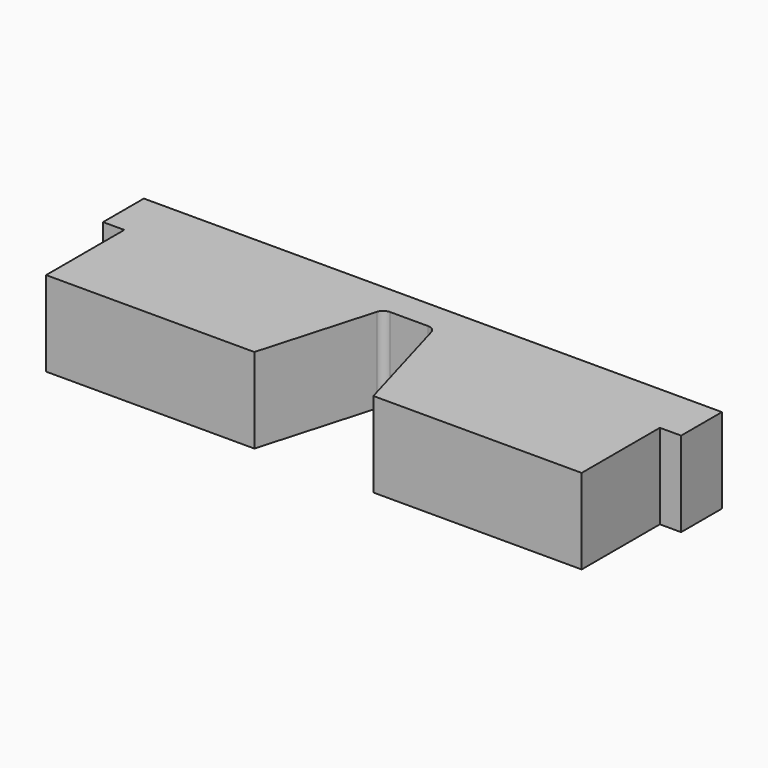
from build123d import *

# Parameters (mm, degrees)
F0_W     = 136
F0_H     = 35
F1_DEPTH = 20
F2_W     = 5
F2_H     = 23
F3_DEPTH = 25
F4_R     = 2


with BuildPart() as f1:
    # F0 (on Top) → F1 (new body)
    with BuildSketch(Plane.XY):
        with Locations((68, -17.5)):
            Rectangle(F0_W, F0_H)
    extrude(amount=F1_DEPTH)

    # F2 (on face) → F3 (cut)
    with BuildSketch(Plane.XY.offset(20)):
        Polygon((68, -7), (62, -7), (54, -35), (82, -35), (74, -7), align=None)
        with Locations((133.5, -23.5)):
            Rectangle(F2_W, F2_H)
        with Locations((2.5, -23.5)):
            Rectangle(F2_W, F2_H)
    extrude(amount=-F3_DEPTH, mode=Mode.SUBTRACT)

    # F4
    f4_edges = [f1.edges().sort_by_distance(p)[0] for p in [
        (62, -7, 10),
        (74, -7, 10),
    ]]
    fillet(f4_edges, radius=F4_R)


solid = f1.part
